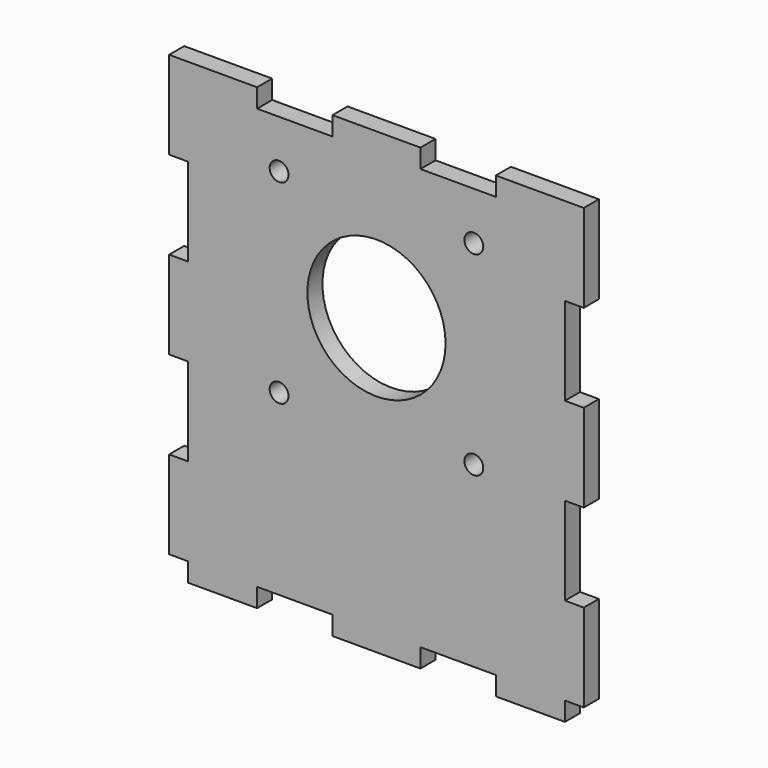
from build123d import *

# Parameters (mm, degrees)
F0_R     = 1.5
F0_R_2   = 11
F1_DEPTH = 3


with BuildPart() as f1:
    # F0 (on Front) → F1 (new body)
    with BuildSketch(Plane.XZ):
        Polygon((30, 12.15), (33, 12.15), (33, 26.15), (19, 26.15), (19, 23.15), (7, 23.15), (7, 26.15), (-7, 26.15), (-7, 23.15), (-19, 23.15), (-19, 26.15), (-33, 26.15), (-33, 12.15), (-30, 12.15), (-30, -1.85), (-33, -1.85), (-33, -15.85), (-30, -15.85), (-30, -29.85), (-33, -29.85), (-33, -43.85), (-30, -43.85), (-30, -46.85), (-19, -46.85), (-19, -43.85), (-7, -43.85), (-7, -46.85), (7, -46.85), (7, -43.85), (19, -43.85), (19, -46.85), (30, -46.85), (30, -43.85), (33, -43.85), (33, -29.85), (30, -29.85), (30, -15.85), (33, -15.85), (33, -1.85), (30, -1.85), align=None)
        with Locations((-15.5, -15.5)):
            Circle(F0_R, mode=Mode.SUBTRACT)
        with Locations((15.5, -15.5)):
            Circle(F0_R, mode=Mode.SUBTRACT)
        with Locations((-15.5, 15.5)):
            Circle(F0_R, mode=Mode.SUBTRACT)
        Circle(F0_R_2, mode=Mode.SUBTRACT)
        with Locations((15.5, 15.5)):
            Circle(F0_R, mode=Mode.SUBTRACT)
    extrude(amount=F1_DEPTH)


solid = f1.part
